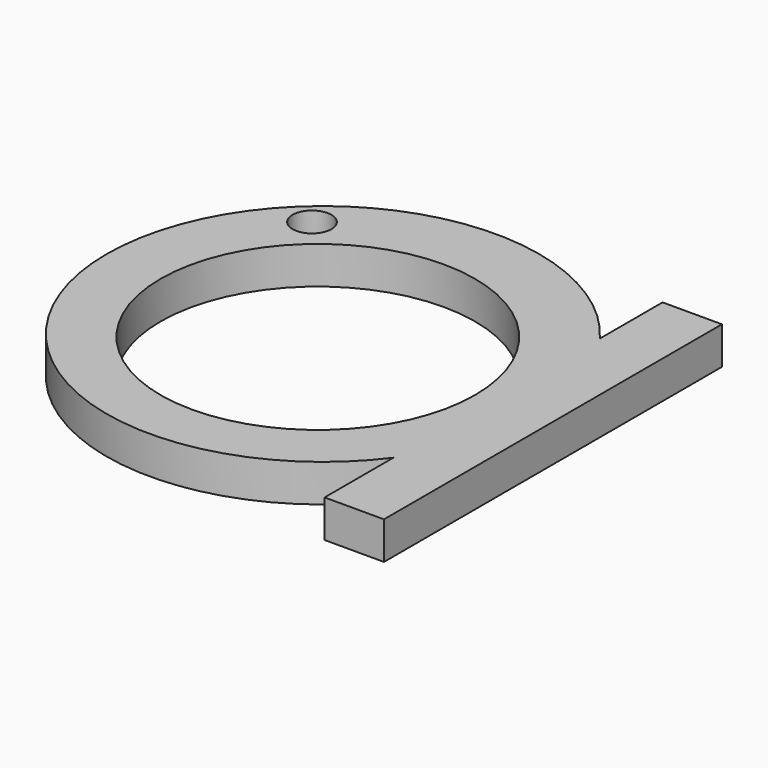
from build123d import *

# Parameters (mm, degrees)
F0_R     = 28.827608
F1_DEPTH = 5
F2_R     = 20.957085
F3_DEPTH = 5
F4_W     = 7.907964
F4_H     = 56.286104
F5_DEPTH = 5
F6_R     = 2.590527
F7_DEPTH = 5


with BuildPart() as f1:
    # F0 (on Top) → F1 (new body)
    with BuildSketch(Plane.XY):
        with Locations((0, 0.851326)):
            Circle(F0_R)
    extrude(amount=F1_DEPTH)

    # F2 (on face) → F3 (cut)
    with BuildSketch(Plane.XY.offset(5)):
        Circle(F2_R)
    extrude(amount=-F3_DEPTH, mode=Mode.SUBTRACT)

    # F4 (on Top) → F5 (join)
    with BuildSketch(Plane.XY):
        with Locations((27.096411, 0.348881)):
            Rectangle(F4_W, F4_H)
    extrude(amount=F5_DEPTH)

    # F6 (on face) → F7 (cut)
    with BuildSketch(Plane.XY.offset(5)):
        with Locations((-16.652713, 19.845931)):
            Circle(F6_R)
    extrude(amount=-F7_DEPTH, mode=Mode.SUBTRACT)


solid = f1.part
